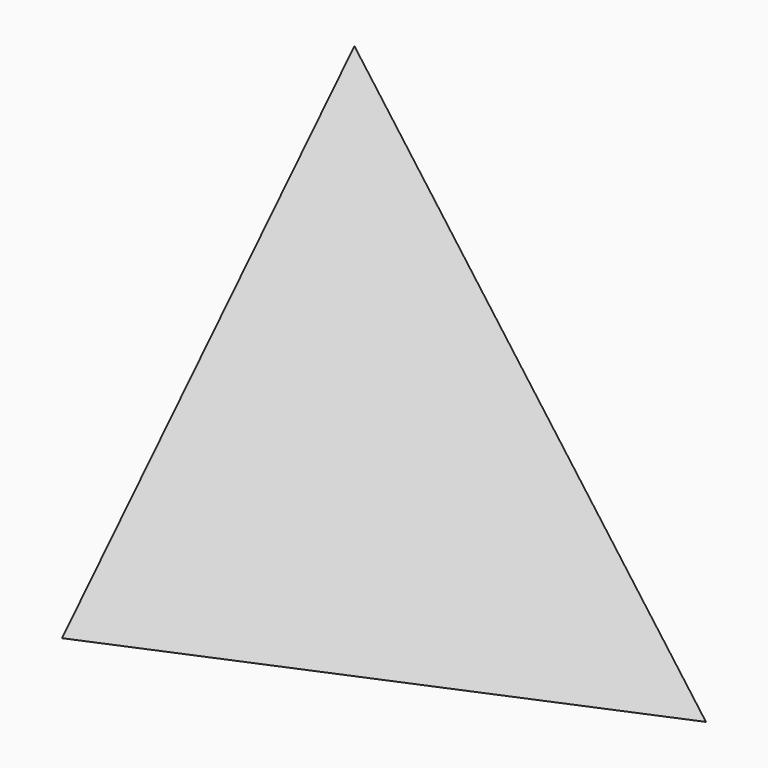
from build123d import *


with BuildPart() as f2:
    # F0 (on Front) → F2 section 0
    with BuildSketch(Plane.XZ, mode=Mode.PRIVATE) as f2_s0:
        Polygon((55.981971, -24.710399), (-6.591152, 60.837009), (-49.390819, -36.12661), align=None)
    loft([f2_s0.sketch, Vertex(0, -73.291026, 0)])


solid = f2.part
